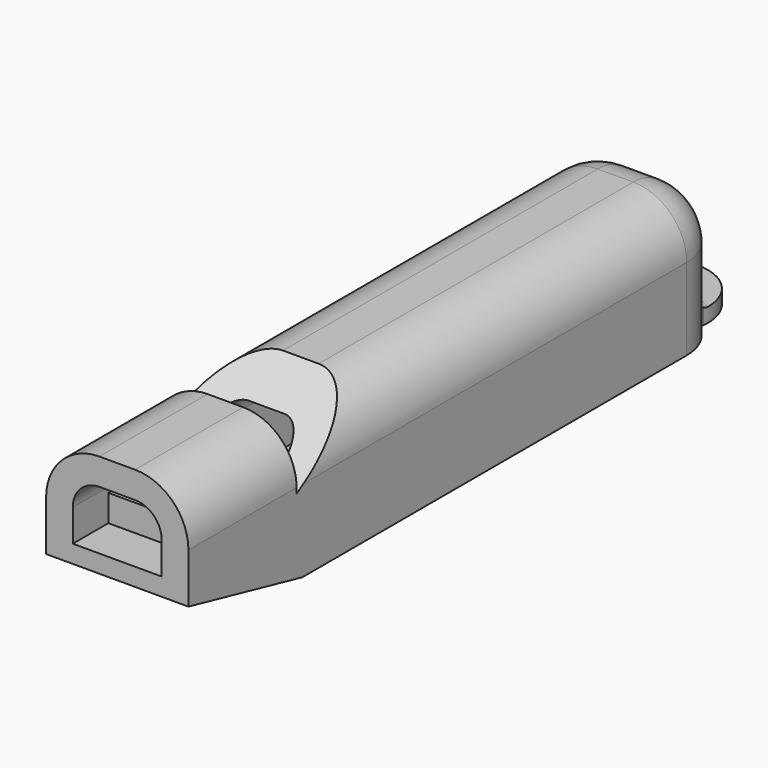
from build123d import *

# Parameters (mm, degrees)
F0_W      = 8
F0_H      = 7.6
F1_DEPTH  = 38
F2_R      = 3
F3_R      = 3
F4_T      = -1.5
F5_W      = 8
F5_H      = 4.3
F6_DEPTH  = 7.6
F8_DEPTH  = 8.001
F9_W      = 5
F9_H      = 1.5
F10_DEPTH = 2.5
F12_DEPTH = 25
F14_W     = 1.3
F14_H     = 0.8
F16_R     = 0.5


with BuildPart() as f1:
    # F0 (on Front) → F1 (new body)
    with BuildSketch(Plane.XZ):
        with Locations((0, 3.8)):
            Rectangle(F0_W, F0_H)
    extrude(amount=-F1_DEPTH)

    # F2
    f2_edges = [f1.edges().sort_by_distance(p)[0] for p in [
        (4, 19, 7.6),
        (-4, 19, 7.6),
    ]]
    fillet(f2_edges, radius=F2_R)

    # F3
    f3_edges = [f1.edges().sort_by_distance(p)[0] for p in [
        (4, 38, 2.3),
    ]]
    fillet(f3_edges, radius=F3_R)

    # F4
    f4_openings = [f1.faces().sort_by_distance(p)[0] for p in [
        (0, 0, 3.587656),
    ]]
    offset(amount=F4_T, openings=f4_openings)

    # F5 (on face) → F6 (join)
    with BuildSketch(Plane.XZ):
        with Locations((0, 2.15)):
            Rectangle(F5_W, F5_H)
    extrude(amount=-F6_DEPTH)

    # F7 (on face) → F8 (cut, through all)
    with BuildSketch(Plane.YZ.offset(4)):
        Polygon((7.6, 7.6), (7.6, 4.3), (12.9, 7.6), align=None)
    extrude(amount=-F8_DEPTH, mode=Mode.SUBTRACT)

    # F9 (on face) → F10 (cut)
    with BuildSketch(Plane.XZ):
        with Locations((0, 3.55)):
            Rectangle(F9_W, F9_H)
    extrude(amount=-F10_DEPTH, mode=Mode.SUBTRACT)

    # F11 (on face) → F12 (cut)
    with BuildSketch(Plane.YZ.offset(4)):
        Polygon((8, 0), (0, 1.8), (0, 0), align=None)
    extrude(amount=-F12_DEPTH, mode=Mode.SUBTRACT)

    # F14 (on Right) → F15 (revolve)
    with BuildSketch(Plane.YZ):
        with Locations((40.15, 0.4)):
            Rectangle(F14_W, F14_H)
    revolve(axis=Axis((0, 38, 2.3), (0, 0, 1)))

    # F16
    f16_edges = [f1.edges().sort_by_distance(p)[0] for p in [
        (2.150942, 37.770439, 0.8),
        (-2.150942, 37.770439, 0.8),
        (2.743679, 37.441226, 0.4),
        (-2.743679, 37.441226, 0.4),
    ]]
    fillet(f16_edges, radius=F16_R)


solid = f1.part
